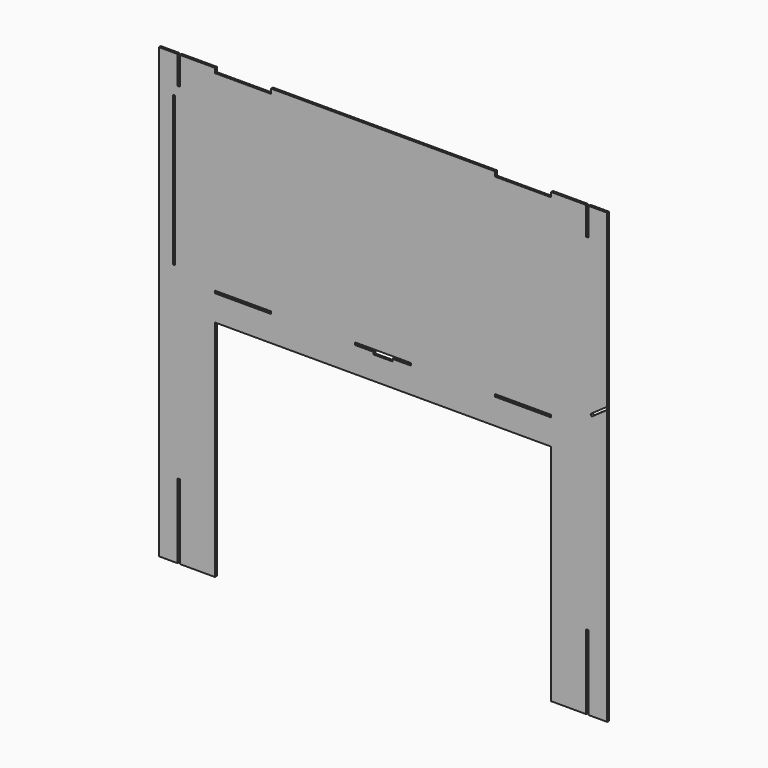
from build123d import *

# Parameters (mm, degrees)
F0_W      = 609.6
F0_H      = 609.6
F1_DEPTH  = 3.175
F2_W      = 457.2
F2_H      = 304.8
F2_W_2    = 3.175
F2_H_2    = 152.4
F2_W_3    = 76.2
F2_H_3    = 3.175
F2_H_4    = 6.35
F3_DEPTH  = 3.176
F4_W      = 3.175
F4_H      = 101.6
F5_DEPTH  = 3.176
F6_W      = 3.175
F6_H      = 203.2
F7_DEPTH  = 3.176
F8_W      = 25.4
F8_H      = 3.175
F9_DEPTH  = 25.4
F10_W     = 3.175
F10_H     = 114.3
F11_DEPTH = 3.175


with BuildPart() as f1:
    # F0 (on Front) → F1 (new body)
    with BuildSketch(Plane.XZ):
        Rectangle(F0_W, F0_H)
    extrude(amount=F1_DEPTH)

    # F2 (on face) → F3 (cut, through all)
    with BuildSketch(Plane.XZ.offset(3.175)):
        with Locations((-0.080462, -152.4)):
            Rectangle(F2_W, F2_H)
        with Locations((-277.892962, 228.6)):
            Rectangle(F2_W_2, F2_H_2)
        with Locations((277.732038, 228.6)):
            Rectangle(F2_W_2, F2_H_2)
        Polygon((283.913076, 54.01643), (304.719538, 68.585271), (304.719538, 72.461231), (282.091971, 56.617238), align=None)
        with Locations((-190.580462, 36.5125)):
            Rectangle(F2_W_3, F2_H_3)
        with Locations((-0.080462, 36.5125)):
            Rectangle(F2_W_3, F2_H_3)
        with Locations((190.419538, 36.5125)):
            Rectangle(F2_W_3, F2_H_3)
        with Locations((-190.580462, 301.625)):
            Rectangle(F2_W_3, F2_H_4)
        with Locations((190.419538, 301.625)):
            Rectangle(F2_W_3, F2_H_4)
    extrude(amount=-F3_DEPTH, mode=Mode.SUBTRACT)

    # F4 (on face) → F5 (cut, through all)
    with BuildSketch(Plane(origin=(0, 0, 0), x_dir=(-1, 0, 0), z_dir=(0, 1, 0))):
        with Locations((-277.8125, -254)):
            Rectangle(F4_W, F4_H)
        with Locations((277.8125, -254)):
            Rectangle(F4_W, F4_H)
    extrude(amount=-F5_DEPTH, mode=Mode.SUBTRACT)

    # F6 (on face) → F7 (cut, through all)
    with BuildSketch(Plane(origin=(0, 0, 0), x_dir=(-1, 0, 0), z_dir=(0, 1, 0))):
        with Locations((284.242962, 152.4)):
            Rectangle(F6_W, F6_H)
    extrude(amount=-F7_DEPTH, mode=Mode.SUBTRACT)

    # F8 (on face) → F9 (cut)
    with BuildSketch(Plane.XZ.offset(3.175)):
        with Locations((0, 33.3375)):
            Rectangle(F8_W, F8_H)
    extrude(amount=-F9_DEPTH, mode=Mode.SUBTRACT)

    # F10 (on face) → F11 (join)
    with BuildSketch(Plane.XZ.offset(3.175)):
        with Locations((-277.892962, 209.55)):
            Rectangle(F10_W, F10_H)
        with Locations((277.732038, 209.55)):
            Rectangle(F10_W, F10_H)
    extrude(amount=-F11_DEPTH)


solid = f1.part
